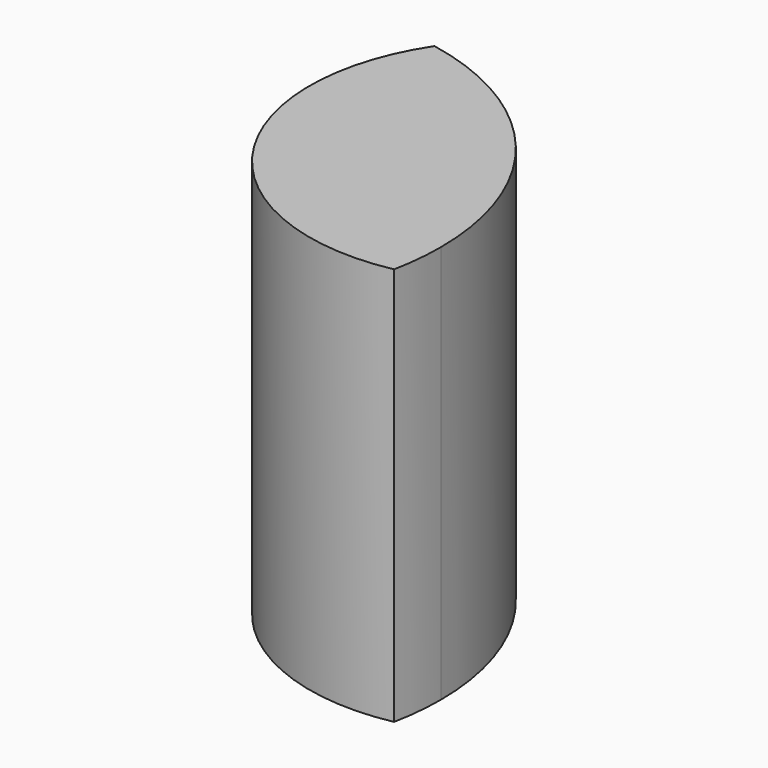
from build123d import *

# Parameters (mm, degrees)
F1_DEPTH = 82.7613919973


with BuildPart() as f1:
    # F0 (on Top) → F1 (new body)
    with BuildSketch(Plane.XY):
        with BuildLine():
            ThreePointArc((54.5082566371, -10.7905683579), (55.300972701, -5.4211461357), (55.5660544496, 0))
            ThreePointArc((55.5660544496, 0), (42.8849432711, 35.3336673406), (10.6296968082, 54.5398565534))
            ThreePointArc((10.6296968082, 54.5398565534), (10.7602010957, 7.2269869389), (54.5082566371, -10.7905683579))
        make_face()
    extrude(amount=F1_DEPTH)


solid = f1.part
